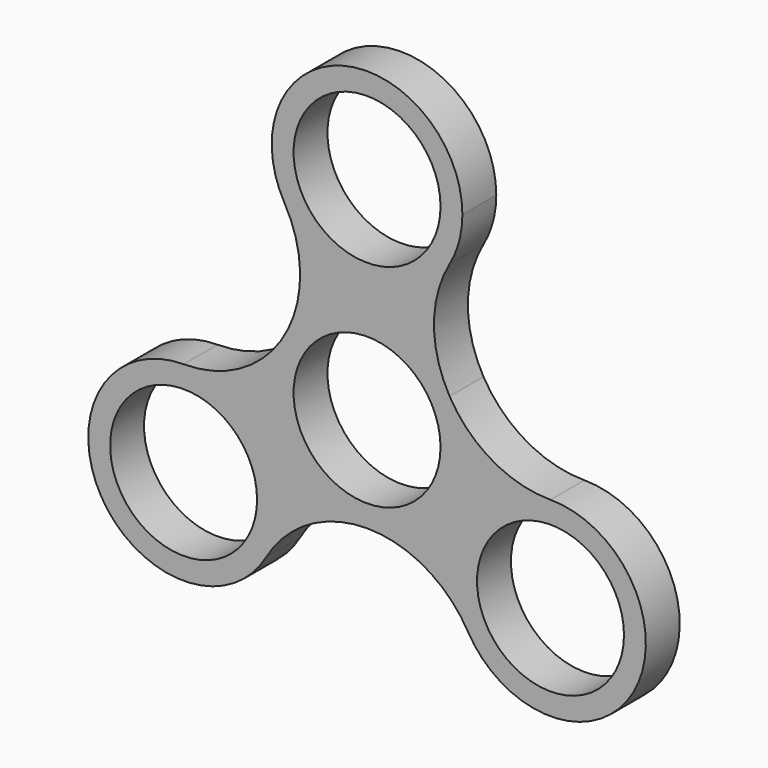
from build123d import *

# Parameters (mm, degrees)
F0_R     = 11.0109
F1_DEPTH = 6.35


with BuildPart() as f1:
    # F0 (on Front) → F1 (new body)
    with BuildSketch(Plane.XZ):
        with BuildLine():
            ThreePointArc((-12.3733379566, 24.60625), (0, 17.4625), (12.3733379566, 24.60625))
            ThreePointArc((12.3733379566, 24.60625), (13.8006652431, 28.0521228931), (14.2875, 31.75))
            ThreePointArc((14.2875, 31.75), (-3.6978771069, 45.5506652431), (-12.3733379566, 24.60625))
        make_face()
        with Locations((0, 31.75)):
            Circle(F0_R, mode=Mode.SUBTRACT)
        with BuildLine():
            ThreePointArc((-12.3733379294, 7.1437500471), (2.59e-08, 14.2875), (12.3733379553, 7.1437500022))
            ThreePointArc((12.3733379553, 7.1437500022), (10.0338065702, 15.8750000013), (12.3733379566, 24.60625))
            ThreePointArc((12.3733379566, 24.60625), (0, 17.4625), (-12.3733379566, 24.60625))
            ThreePointArc((-12.3733379566, 24.60625), (-10.0338065702, 15.8750000272), (-12.3733379294, 7.1437500471))
        make_face()
        with BuildLine():
            ThreePointArc((-15.1229686136, -23.01875), (-8.7312499946, -16.6270313833), (1.26e-08, -14.2875))
            ThreePointArc((1.26e-08, -14.2875), (-12.373337967, -7.1437499819), (-12.3733379294, 7.1437500471))
            ThreePointArc((-12.3733379294, 7.1437500471), (-18.7650565466, 0.7520314), (-27.4963065702, -1.5875))
            ThreePointArc((-27.4963065702, -1.5875), (-17.393518434, -5.7722118638), (-13.2088065702, -15.875))
            ThreePointArc((-13.2088065702, -15.875), (-13.6956413271, -19.5728771069), (-15.1229686136, -23.01875))
        make_face()
        with BuildLine():
            ThreePointArc((1.26e-08, -14.2875), (10.1027881406, -10.1027881318), (14.2875, 0))
            ThreePointArc((14.2875, 0), (13.8006652428, 3.6978771082), (12.3733379553, 7.1437500022))
            ThreePointArc((12.3733379553, 7.1437500022), (2.59e-08, 14.2875), (-12.3733379294, 7.1437500471))
            ThreePointArc((-12.3733379294, 7.1437500471), (-12.373337967, -7.1437499819), (1.26e-08, -14.2875))
        make_face()
        Circle(F0_R, mode=Mode.SUBTRACT)
        with BuildLine():
            ThreePointArc((12.3733379553, 7.1437500022), (13.8006652428, 3.6978771082), (14.2875, 0))
            ThreePointArc((14.2875, 0), (10.1027881406, -10.1027881318), (1.26e-08, -14.2875))
            ThreePointArc((1.26e-08, -14.2875), (8.7312500054, -16.6270313896), (15.1229686136, -23.01875))
            ThreePointArc((15.1229686136, -23.01875), (15.1229686136, -8.73125), (27.4963065702, -1.5875))
            ThreePointArc((27.4963065702, -1.5875), (18.765056569, 0.7520313871), (12.3733379553, 7.1437500022))
        make_face()
        with BuildLine():
            ThreePointArc((41.7838065702, -15.875), (37.5990947064, -5.7722118638), (27.4963065702, -1.5875))
            ThreePointArc((27.4963065702, -1.5875), (15.1229686136, -8.73125), (15.1229686136, -23.01875))
            ThreePointArc((15.1229686136, -23.01875), (31.1941836771, -29.6756652431), (41.7838065702, -15.875))
        make_face()
        with Locations((27.4963065702, -15.875)):
            Circle(F0_R, mode=Mode.SUBTRACT)
        with BuildLine():
            ThreePointArc((-27.4963065702, -1.5875), (-39.8696445267, -23.01875), (-15.1229686136, -23.01875))
            ThreePointArc((-15.1229686136, -23.01875), (-13.6956413271, -19.5728771069), (-13.2088065702, -15.875))
            ThreePointArc((-13.2088065702, -15.875), (-17.393518434, -5.7722118638), (-27.4963065702, -1.5875))
        make_face()
        with Locations((-27.4963065702, -15.875)):
            Circle(F0_R, mode=Mode.SUBTRACT)
    extrude(amount=F1_DEPTH)


solid = f1.part
